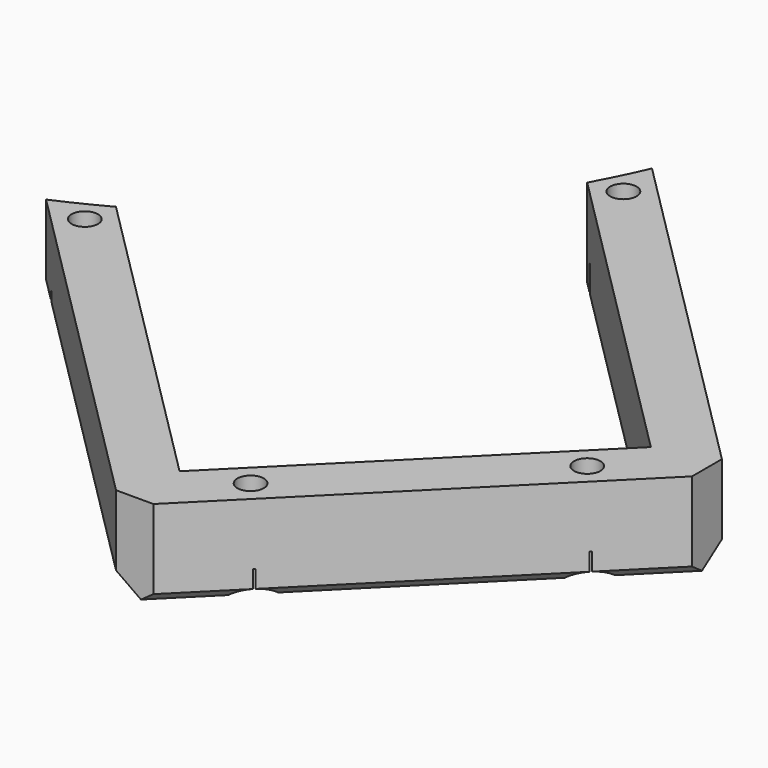
from build123d import *

# Parameters (mm, degrees)
CYLINDER1781_R              = 3
CYLINDER1781_DEPTH          = 3
CYLINDER1773_R              = 3
CYLINDER1773_DEPTH          = 3
CYLINDER1782_R              = 3
CYLINDER1782_DEPTH          = 3
CYLINDER1777_R              = 3
CYLINDER1777_DEPTH          = 3
COMPOUND885_PLACEMENT_ANGLE = 225
CYLINDER1778_R              = 1.5
CYLINDER1778_DEPTH          = 60
CYLINDER1774_R              = 1.5
CYLINDER1774_DEPTH          = 60
CYLINDER1775_R              = 1.5
CYLINDER1775_DEPTH          = 60
CYLINDER1783_R              = 1.5
CYLINDER1783_DEPTH          = 60
COMPOUND886_PLACEMENT_ANGLE = 225
CYLINDER1779_R              = 74
CYLINDER1779_DEPTH          = 40
BOX706_W                    = 42
BOX706_H                    = 62
BOX706_DEPTH                = 50
COMPOUND883_PLACEMENT_ANGLE = 225
BOX708_W                    = 54
BOX708_H                    = 68
BOX708_DEPTH                = 10
COMPOUND884_PLACEMENT_ANGLE = 225
CHAMFER057_SIZE             = 3
CHAMFER056_SIZE             = 2
CHAMFER058_SIZE             = 1


with BuildPart() as obj1:
    # Cylinder1781 → Cylinder1781 (new body)
    with BuildSketch(Plane(origin=(-24, 73, -80), x_dir=(1, 0, 0), z_dir=(0, 0, 1))):
        Circle(CYLINDER1781_R)
    extrude(amount=CYLINDER1781_DEPTH)


with BuildPart() as obj2:
    # Cylinder1773 → Cylinder1773 (new body)
    with BuildSketch(Plane(origin=(-15, 125, -80), x_dir=(1, 0, 0), z_dir=(0, 0, 1))):
        Circle(CYLINDER1773_R)
    extrude(amount=CYLINDER1773_DEPTH)


with BuildPart() as obj3:
    # Cylinder1782 → Cylinder1782 (new body)
    with BuildSketch(Plane(origin=(15, 125, -80), x_dir=(1, 0, 0), z_dir=(0, 0, 1))):
        Circle(CYLINDER1782_R)
    extrude(amount=CYLINDER1782_DEPTH)


with BuildPart() as compound885:
    # Cylinder1777 → Cylinder1777 (new body)
    with BuildSketch(Plane(origin=(24, 73, -80), x_dir=(1, 0, 0), z_dir=(0, 0, 1))):
        Circle(CYLINDER1777_R)
    extrude(amount=CYLINDER1777_DEPTH)

    # Compound885: union obj1, obj2, obj3
    add(obj1.part)
    add(obj2.part)
    add(obj3.part)


with BuildPart() as compound885_1:
    # Compound885 placement: moved
    add(compound885.part.moved(Location((0, 0, 135))).rotate(Axis((0, 0, 135), (0, 0, 1)), COMPOUND885_PLACEMENT_ANGLE))


with BuildPart() as obj4:
    # Cylinder1778 → Cylinder1778 (new body)
    with BuildSketch(Plane(origin=(-24, 73, -80), x_dir=(1, 0, 0), z_dir=(0, 0, 1))):
        Circle(CYLINDER1778_R)
    extrude(amount=CYLINDER1778_DEPTH)


with BuildPart() as obj5:
    # Cylinder1774 → Cylinder1774 (new body)
    with BuildSketch(Plane(origin=(-15, 125, -80), x_dir=(1, 0, 0), z_dir=(0, 0, 1))):
        Circle(CYLINDER1774_R)
    extrude(amount=CYLINDER1774_DEPTH)


with BuildPart() as obj6:
    # Cylinder1775 → Cylinder1775 (new body)
    with BuildSketch(Plane(origin=(15, 125, -80), x_dir=(1, 0, 0), z_dir=(0, 0, 1))):
        Circle(CYLINDER1775_R)
    extrude(amount=CYLINDER1775_DEPTH)


with BuildPart() as compound886:
    # Cylinder1783 → Cylinder1783 (new body)
    with BuildSketch(Plane(origin=(24, 73, -80), x_dir=(1, 0, 0), z_dir=(0, 0, 1))):
        Circle(CYLINDER1783_R)
    extrude(amount=CYLINDER1783_DEPTH)

    # Compound886: union obj4, obj5, obj6
    add(obj4.part)
    add(obj5.part)
    add(obj6.part)


with BuildPart() as compound886_1:
    # Compound886 placement: moved
    add(compound886.part.moved(Location((0, 0, 100))).rotate(Axis((0, 0, 100), (0, 0, 1)), COMPOUND886_PLACEMENT_ANGLE))


with BuildPart() as obj7:
    # Cylinder1779 → Cylinder1779 (new body)
    with BuildSketch(Plane.XY.offset(44)):
        Circle(CYLINDER1779_R)
    extrude(amount=CYLINDER1779_DEPTH)


with BuildPart() as compound883:
    # Box706 → Box706 (new body)
    with BuildSketch(Plane(origin=(-21.001071, 60.005081, 31), x_dir=(1, 0, 0), z_dir=(0, 0, 1))):
        with Locations((21, 31)):
            Rectangle(BOX706_W, BOX706_H)
    extrude(amount=BOX706_DEPTH)


with BuildPart() as compound883_1:
    # Compound883 placement: moved
    add(compound883.part.rotate(Axis((0, 0, 0), (0, 0, 1)), COMPOUND883_PLACEMENT_ANGLE))


with BuildPart() as cut518:
    # Box708 → Box708 (new body)
    with BuildSketch(Plane(origin=(-27.004408, 59.99801, 75), x_dir=(1, 0, 0), z_dir=(0, 0, 1))):
        with Locations((27, 34)):
            Rectangle(BOX708_W, BOX708_H)
    extrude(amount=BOX708_DEPTH)


with BuildPart() as cut518_1:
    # Compound884 placement: moved
    add(cut518.part.moved(Location((0, 0, -20))).rotate(Axis((0, 0, -20), (0, 0, 1)), COMPOUND884_PLACEMENT_ANGLE))

    # Cut513: cut Compound883
    add(compound883_1.part, mode=Mode.SUBTRACT)

    # Cut517: cut obj7
    add(obj7.part, mode=Mode.SUBTRACT)

    # Chamfer057
    chamfer057_edges = [cut518_1.edges().sort_by_distance(p)[0] for p in [
        (109.603261, -71.413261, 60),
        (71.419495, -109.597027, 60),
    ]]
    chamfer(chamfer057_edges, length=CHAMFER057_SIZE)

    # Chamfer056
    chamfer056_edges = [cut518_1.edges().sort_by_distance(p)[0] for p in [
        (87.647149, -49.457149, 55),
        (49.464605, -87.642137, 55),
    ]]
    chamfer(chamfer056_edges, length=CHAMFER056_SIZE)

    # Chamfer058
    chamfer058_edges = [cut518_1.edges().sort_by_distance(p)[0] for p in [
        (90.511378, -90.505144, 55),
    ]]
    chamfer(chamfer058_edges, length=CHAMFER058_SIZE)

    # Cut516: cut Compound886
    add(compound886_1.part, mode=Mode.SUBTRACT)

    # Cut518: cut Compound885
    add(compound885_1.part, mode=Mode.SUBTRACT)


solid = cut518_1.part
